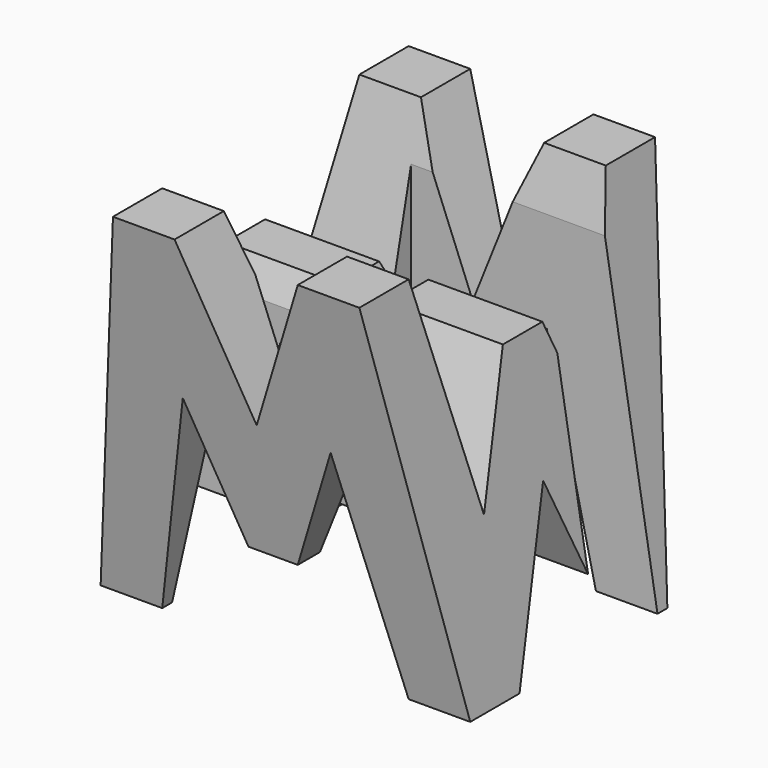
from build123d import *

# Parameters (mm, degrees)
F0_W      = 38.1
F0_H      = 38.1
F1_DEPTH  = 38.1
F6_DEPTH  = 38.1
F8_DEPTH  = 38.1
F9_W      = 25.4
F9_H      = 7.62
F10_DEPTH = 38.1


with BuildPart() as f1:
    # F0 (on Front) → F1 (new body)
    with BuildSketch(Plane.XZ):
        with Locations((19.05, 19.05)):
            Rectangle(F0_W, F0_H)
    extrude(amount=F1_DEPTH)

    # F5 (on offset) → F6 (cut)
    with BuildSketch(Plane.YZ.offset(38.1)):
        Polygon((-31.75, 0), (-38.1, 38.1), (-38.1, 0), align=None)
        Polygon((-11.43, 15.875), (-6.35, 38.1), (-31.75, 38.1), (-26.67, 15.875), (-21.59, 28.575), (-16.51, 28.575), align=None)
        Polygon((-6.35, 0), (0, 0), (0, 38.1), align=None)
        Polygon((-25.4, 0), (-12.7, 0), (-19.05, 15.875), align=None)
    extrude(amount=-F6_DEPTH, mode=Mode.SUBTRACT)

    # F7 (on offset) → F8 (cut)
    with BuildSketch(Plane.XZ.offset(38.1)):
        Polygon((11.43, 22.225), (6.35, 0), (31.75, 0), (26.67, 22.225), (21.59, 9.525), (16.51, 9.525), align=None)
        Polygon((25.4, 38.1), (12.7, 38.1), (19.05, 22.225), align=None)
        Polygon((0, 38.1), (0, 0), (6.35, 38.1), align=None)
        Polygon((31.75, 38.1), (38.1, 0), (38.1, 38.1), align=None)
    extrude(amount=-F8_DEPTH, mode=Mode.SUBTRACT)

    # F9 (on offset) → F10 (cut)
    with BuildSketch(Plane.XY.offset(38.1)):
        with Locations((25.4, -11.43)):
            Rectangle(F9_W, F9_H)
        with Locations((12.7, -26.67)):
            Rectangle(F9_W, F9_H)
    extrude(amount=-F10_DEPTH, mode=Mode.SUBTRACT)


solid = f1.part
